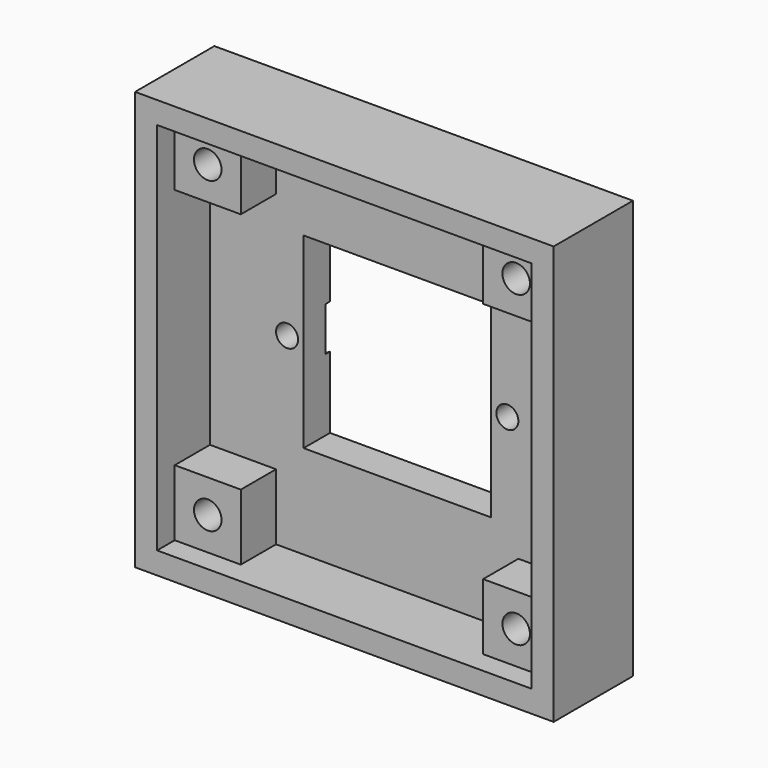
from build123d import *

# Parameters (mm, degrees)
F0_R     = 1.25
F1_DEPTH = 7
F0_R_2   = 1
F2_DEPTH = 3
F3_DEPTH = 3
F4_DEPTH = 7
F0_W     = 6
F0_H     = 6
F0_W_2   = 22
F0_H_2   = 1
F5_DEPTH = 3
F0_W_3   = 38
F0_H_3   = 38
F6_DEPTH = 9
F7_DEPTH = 0.5
F8_DEPTH = 0.5


with BuildPart() as f1:
    # F0 (on Front) → F1 (new body)
    with BuildSketch(Plane.XZ):
        with BuildLine():
            ThreePointArc((-11.5, 14), (-11.7639320225, 15.1180339887), (-12.5, 16))
            ThreePointArc((-12.5, 16), (-15.767766953, 15.767766953), (-16, 12.5))
            ThreePointArc((-16, 12.5), (-13.209430585, 11.6282917549), (-11.5, 14))
        make_face()
        with Locations((-14, 14)):
            Circle(F0_R, mode=Mode.SUBTRACT)
    extrude(amount=F1_DEPTH)

    # F0 (on Front) → F4 (join)
    with BuildSketch(Plane.XZ):
        with BuildLine():
            Line((-11, 11), (-11, 16))
            Line((-11, 16), (-12.5, 16))
            ThreePointArc((-12.5, 16), (-11.7639320225, 15.1180339887), (-11.5, 14))
            ThreePointArc((-11.5, 14), (-13.209430585, 11.6282917549), (-16, 12.5))
            Line((-16, 12.5), (-16, 11))
            Line((-16, 11), (-11, 11))
        make_face()
        with BuildLine():
            Line((-11, 16), (-11, 17))
            Line((-11, 17), (-17, 17))
            Line((-17, 17), (-17, 11))
            Line((-17, 11), (-16, 11))
            Line((-16, 11), (-16, 12.5))
            ThreePointArc((-16, 12.5), (-15.767766953, 15.767766953), (-12.5, 16))
            Line((-12.5, 16), (-11, 16))
        make_face()
    extrude(amount=F4_DEPTH)



with BuildPart() as f1b:
    # F0 (on Front) → F1, piece 2 (new body)
    with BuildSketch(Plane.XZ):
        with BuildLine():
            ThreePointArc((12.5, 16), (12.232233047, 12.232233047), (16, 12.5))
            ThreePointArc((16, 12.5), (16.3717082451, 13.209430585), (16.5, 14))
            ThreePointArc((16.5, 14), (15.1180339887, 16.2360679775), (12.5, 16))
        make_face()
        with Locations((14, 14)):
            Circle(F0_R, mode=Mode.SUBTRACT)
    extrude(amount=F1_DEPTH)

    # F0 (on Front) → F4, piece 2 (join)
    with BuildSketch(Plane.XZ):
        with BuildLine():
            ThreePointArc((16.5, 14), (16.3717082451, 13.209430585), (16, 12.5))
            Line((16, 12.5), (16, 11))
            Line((16, 11), (17, 11))
            Line((17, 11), (17, 17))
            Line((17, 17), (11, 17))
            Line((11, 17), (11, 16))
            Line((11, 16), (12.5, 16))
            ThreePointArc((12.5, 16), (15.1180339887, 16.2360679775), (16.5, 14))
        make_face()
        with BuildLine():
            Line((16, 11), (16, 12.5))
            ThreePointArc((16, 12.5), (12.232233047, 12.232233047), (12.5, 16))
            Line((12.5, 16), (11, 16))
            Line((11, 16), (11, 11))
            Line((11, 11), (16, 11))
        make_face()
    extrude(amount=F4_DEPTH)


with BuildPart() as f1c:
    # F0 (on Front) → F1, piece 3 (new body)
    with BuildSketch(Plane.XZ):
        with BuildLine():
            ThreePointArc((-16, -12.5), (-15.767766953, -15.767766953), (-12.5, -16))
            ThreePointArc((-12.5, -16), (-11.7639320225, -15.1180339887), (-11.5, -14))
            ThreePointArc((-11.5, -14), (-13.209430585, -11.6282917549), (-16, -12.5))
        make_face()
        with Locations((-14, -14)):
            Circle(F0_R, mode=Mode.SUBTRACT)
    extrude(amount=F1_DEPTH)

    # F0 (on Front) → F4, piece 4 (join)
    with BuildSketch(Plane.XZ):
        with BuildLine():
            Line((-12.5, -16), (-11, -16))
            Line((-11, -16), (-11, -11))
            Line((-11, -11), (-16, -11))
            Line((-16, -11), (-16, -12.5))
            ThreePointArc((-16, -12.5), (-13.209430585, -11.6282917549), (-11.5, -14))
            ThreePointArc((-11.5, -14), (-11.7639320225, -15.1180339887), (-12.5, -16))
        make_face()
        with BuildLine():
            Line((-11, -17), (-11, -16))
            Line((-11, -16), (-12.5, -16))
            ThreePointArc((-12.5, -16), (-15.767766953, -15.767766953), (-16, -12.5))
            Line((-16, -12.5), (-16, -11))
            Line((-16, -11), (-17, -11))
            Line((-17, -11), (-17, -17))
            Line((-17, -17), (-11, -17))
        make_face()
    extrude(amount=F4_DEPTH)


with BuildPart() as f1d:
    # F0 (on Front) → F1, piece 4 (new body)
    with BuildSketch(Plane.XZ):
        with BuildLine():
            ThreePointArc((16.5, -14), (16.3717082451, -13.209430585), (16, -12.5))
            ThreePointArc((16, -12.5), (12.232233047, -12.232233047), (12.5, -16))
            ThreePointArc((12.5, -16), (15.1180339887, -16.2360679775), (16.5, -14))
        make_face()
        with Locations((14, -14)):
            Circle(F0_R, mode=Mode.SUBTRACT)
    extrude(amount=F1_DEPTH)

    # F0 (on Front) → F4, piece 3 (join)
    with BuildSketch(Plane.XZ):
        with BuildLine():
            Line((17, -11), (16, -11))
            Line((16, -11), (16, -12.5))
            ThreePointArc((16, -12.5), (16.3717082451, -13.209430585), (16.5, -14))
            ThreePointArc((16.5, -14), (15.1180339887, -16.2360679775), (12.5, -16))
            Line((12.5, -16), (11, -16))
            Line((11, -16), (11, -17))
            Line((11, -17), (17, -17))
            Line((17, -17), (17, -11))
        make_face()
        with BuildLine():
            Line((16, -12.5), (16, -11))
            Line((16, -11), (11, -11))
            Line((11, -11), (11, -16))
            Line((11, -16), (12.5, -16))
            ThreePointArc((12.5, -16), (12.232233047, -12.232233047), (16, -12.5))
        make_face()
    extrude(amount=F4_DEPTH)


with BuildPart() as f2:
    # F0 (on Front) → F2 (new body)
    with BuildSketch(Plane.XZ):
        with BuildLine():
            Line((-8.5, -2), (-8.5, 3.6e-09))
            Line((-8.5, 3.6e-09), (-8.5, 2))
            ThreePointArc((-8.5, 2), (-8.9750559736, 2.2802389662), (-9.5, 2.4494897428))
            ThreePointArc((-9.5, 2.4494897428), (-12.5, 0), (-9.5, -2.4494897428))
            ThreePointArc((-9.5, -2.4494897428), (-8.9750559736, -2.2802389662), (-8.5, -2))
        make_face()
        with Locations((-10, 0)):
            Circle(F0_R_2, mode=Mode.SUBTRACT)
    extrude(amount=F2_DEPTH)



with BuildPart() as f2b:
    # F0 (on Front) → F2, piece 2 (new body)
    with BuildSketch(Plane.XZ):
        with BuildLine():
            ThreePointArc((8.5, -1.9991173555), (12.4992939405, 0), (8.5, 1.9991173555))
            Line((8.5, 1.9991173555), (8.5, 0))
            Line((8.5, 0), (8.5, -1.9991173555))
        make_face()
        with Locations((10, 0)):
            Circle(F0_R_2, mode=Mode.SUBTRACT)
    extrude(amount=F2_DEPTH)


with BuildPart() as f2_1:
    add(f2.part)

    add(f2b.part)  # F3 merges F2b
    # F0 (on Front) → F3 (join)
    with BuildSketch(Plane.XZ):
        with BuildLine():
            Line((0, 8.5), (8.5, 8.5))
            Line((8.5, 8.5), (8.5, 1.9991173555))
            ThreePointArc((8.5, 1.9991173555), (12.4992939405, 0), (8.5, -1.9991173555))
            Line((8.5, -1.9991173555), (8.5, -8.5))
            Line((8.5, -8.5), (0, -8.5))
            Line((0, -8.5), (-8.5, -8.5))
            Line((-8.5, -8.5), (-8.5, -2))
            ThreePointArc((-8.5, -2), (-8.9750559736, -2.2802389662), (-9.5, -2.4494897428))
            Line((-9.5, -2.4494897428), (-9.5, -9.5))
            Line((-9.5, -9.5), (9.5, -9.5))
            Line((9.5, -9.5), (9.5, -2.4494897428))
            ThreePointArc((9.5, -2.4494897428), (12.5, 0), (9.5, 2.4494897428))
            Line((9.5, 2.4494897428), (9.5, 9.5))
            Line((9.5, 9.5), (-9.5, 9.5))
            Line((-9.5, 9.5), (-9.5, 2.4494897428))
            ThreePointArc((-9.5, 2.4494897428), (-8.9750559736, 2.2802389662), (-8.5, 2))
            Line((-8.5, 2), (-8.5, 8.5))
            Line((-8.5, 8.5), (0, 8.5))
        make_face()
    extrude(amount=F3_DEPTH)


with BuildPart() as f1_1:
    add(f1.part)

    add(f1b.part)  # F5 merges F1b

    add(f1c.part)  # F5 merges F1c

    add(f1d.part)  # F5 merges F1d

    add(f2_1.part)  # F5 merges F2
    # F0 (on Front) → F5 (join)
    with BuildSketch(Plane.XZ):
        Polygon((10, 16), (11, 16), (11, 17), (-11, 17), (-11, 16), (-10, 16), (0, 16), align=None)
        Polygon((16, 10.2088758318), (16, 11), (11, 11), (11, 16), (10, 16), (10, 10.2023985237), (10, 10), (0, 10), (0, 16), (-10, 16), (-11, 16), (-11, 11), (-16, 11), (-16, 10), (-10, 10), (-10, 4), (-16, 4), (-16, -11), (-11, -11), (-11, -16), (11, -16), (11, -11), (16, -11), align=None)
        with BuildLine():
            ThreePointArc((-9.5, -2.4494897428), (-12.5, 0), (-9.5, 2.4494897428))
            Line((-9.5, 2.4494897428), (-9.5, 9.5))
            Line((-9.5, 9.5), (9.5, 9.5))
            Line((9.5, 9.5), (9.5, 2.4494897428))
            ThreePointArc((9.5, 2.4494897428), (12.5, 0), (9.5, -2.4494897428))
            Line((9.5, -2.4494897428), (9.5, -9.5))
            Line((9.5, -9.5), (-9.5, -9.5))
            Line((-9.5, -9.5), (-9.5, -2.4494897428))
        make_face(mode=Mode.SUBTRACT)
        Polygon((10, 10.2023985237), (10, 16), (0, 16), (0, 10), (10, 10), align=None)
        with Locations((-13, 7)):
            Rectangle(F0_W, F0_H)
        Polygon((-16, 11), (-17, 11), (-17, -11), (-16, -11), (-16, 4), (-16, 10), align=None)
        with Locations((0, -16.5)):
            Rectangle(F0_W_2, F0_H_2)
        Polygon((17, 11), (16, 11), (16, 10.2088758318), (16, -11), (17, -11), align=None)
    extrude(amount=F5_DEPTH)

    # F0 (on Front) → F6 (join)
    with BuildSketch(Plane.XZ):
        Rectangle(F0_W_3, F0_H_3)
        Polygon((17, 17), (17, 11), (17, -11), (17, -17), (11, -17), (-11, -17), (-17, -17), (-17, -11), (-17, 11), (-17, 17), (-11, 17), (11, 17), align=None, mode=Mode.SUBTRACT)
    extrude(amount=F6_DEPTH)

    # F0 (on Front) → F7 (cut)
    with BuildSketch(Plane.XZ):
        with BuildLine():
            Line((-8.5, -2), (-8.5, 3.6e-09))
            Line((-8.5, 3.6e-09), (-8.5, 2))
            ThreePointArc((-8.5, 2), (-8.9750559736, 2.2802389662), (-9.5, 2.4494897428))
            ThreePointArc((-9.5, 2.4494897428), (-12.5, 0), (-9.5, -2.4494897428))
            ThreePointArc((-9.5, -2.4494897428), (-8.9750559736, -2.2802389662), (-8.5, -2))
        make_face()
        with Locations((-10, 0)):
            Circle(F0_R_2, mode=Mode.SUBTRACT)
    extrude(amount=F7_DEPTH, mode=Mode.SUBTRACT)

    # F0 (on Front) → F8 (cut)
    with BuildSketch(Plane.XZ):
        with BuildLine():
            ThreePointArc((8.5, -1.9991173555), (12.4992939405, 0), (8.5, 1.9991173555))
            Line((8.5, 1.9991173555), (8.5, 0))
            Line((8.5, 0), (8.5, -1.9991173555))
        make_face()
        with Locations((10, 0)):
            Circle(F0_R_2, mode=Mode.SUBTRACT)
    extrude(amount=F8_DEPTH, mode=Mode.SUBTRACT)


solid = f1_1.part
